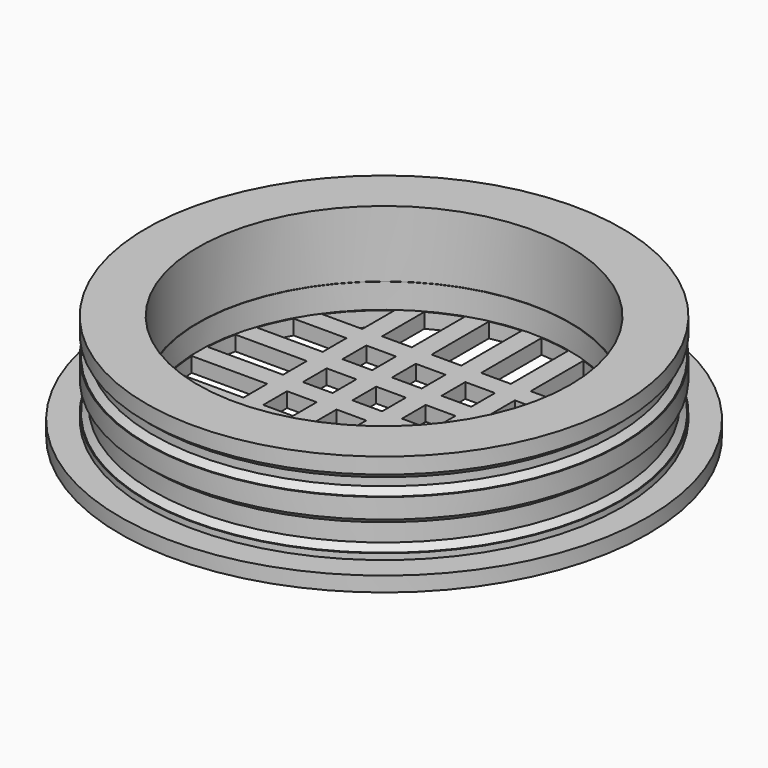
from build123d import *

# Parameters (mm, degrees)
CYLINDER062_R     = 1.9
CYLINDER062_DEPTH = 7.8
CYLINDER068_R     = 1.9
CYLINDER068_DEPTH = 7.8
CYLINDER070_R     = 1.9
CYLINDER070_DEPTH = 7.8
CYLINDER061_R     = 68.3
CYLINDER061_DEPTH = 5
CYLINDER066_R     = 37.5
CYLINDER066_DEPTH = 32
CYLINDER064_R     = 37.5
CYLINDER064_DEPTH = 5
CYLINDER069_R     = 39.9
CYLINDER069_DEPTH = 5
CYLINDER063_R     = 50
CYLINDER063_DEPTH = 10
CYLINDER067_R     = 37.5
CYLINDER067_DEPTH = 5
CYLINDER059_R     = 45
CYLINDER059_DEPTH = 5
BOX024_W          = 66
BOX024_H          = 4
BOX024_DEPTH      = 5
BOX028_W          = 66
BOX028_H          = 4
BOX028_DEPTH      = 5
BOX022_W          = 74
BOX022_H          = 4
BOX022_DEPTH      = 5
BOX020_W          = 74
BOX020_H          = 4
BOX020_DEPTH      = 5
BOX025_W          = 74
BOX025_H          = 4
BOX025_DEPTH      = 5
BOX027_W          = 66
BOX027_H          = 4
BOX027_DEPTH      = 5
BOX026_W          = 76
BOX026_H          = 4
BOX026_DEPTH      = 5
BOX021_W          = 66
BOX021_H          = 4
BOX021_DEPTH      = 5
BOX029_W          = 76
BOX029_H          = 4
BOX029_DEPTH      = 5
BOX023_W          = 74
BOX023_H          = 4
BOX023_DEPTH      = 5
CYLINDER065_R     = 37.3
CYLINDER065_DEPTH = 5
CYLINDER060_R     = 37.5
CYLINDER060_DEPTH = 5
CYLINDER072_R     = 47.3
CYLINDER072_DEPTH = 3
CYLINDER071_R     = 53.3
CYLINDER071_DEPTH = 3
CYLINDER058_R     = 2
CYLINDER058_DEPTH = 7.8
CYLINDER057_R     = 2
CYLINDER057_DEPTH = 7.8
CYLINDER054_R     = 2
CYLINDER054_DEPTH = 7.8
CYLINDER056_R     = 37.6
CYLINDER056_DEPTH = 13.4
CYLINDER055_R     = 40
CYLINDER055_DEPTH = 13.4
CYLINDER019_R     = 68.3
CYLINDER019_DEPTH = 5
CYLINDER009_R     = 40
CYLINDER009_DEPTH = 27.4
CYLINDER008_R     = 45
CYLINDER008_DEPTH = 23.4
CYLINDER005_R     = 45
CYLINDER005_DEPTH = 25
CYLINDER_R        = 48
CYLINDER_DEPTH    = 3.2
CYLINDER003_R     = 46.6
CYLINDER003_DEPTH = 6
CYLINDER001_R     = 46.6
CYLINDER001_DEPTH = 4
CYLINDER002_R     = 48
CYLINDER002_DEPTH = 4
CYLINDER004_R     = 48
CYLINDER004_DEPTH = 1.2
CYLINDER007_R     = 45
CYLINDER007_DEPTH = 25
CYLINDER006_R     = 51.3
CYLINDER006_DEPTH = 5
CHAMFER_SIZE      = 1.2
CHAMFER001_SIZE   = 1.2


with BuildPart() as cylinder062:
    # Cylinder062 → Cylinder062 (new body)
    with BuildSketch(Plane(origin=(0, 39.8, -18), x_dir=(1, 0, 0), z_dir=(0, 0, 1))):
        Circle(CYLINDER062_R)
    extrude(amount=CYLINDER062_DEPTH)


with BuildPart() as cylinder068:
    # Cylinder068 → Cylinder068 (new body)
    with BuildSketch(Plane(origin=(-39.8, 0, -18), x_dir=(1, 0, 0), z_dir=(0, 0, 1))):
        Circle(CYLINDER068_R)
    extrude(amount=CYLINDER068_DEPTH)


with BuildPart() as cylinder070:
    # Cylinder070 → Cylinder070 (new body)
    with BuildSketch(Plane(origin=(39.8, 0, -18), x_dir=(1, 0, 0), z_dir=(0, 0, 1))):
        Circle(CYLINDER070_R)
    extrude(amount=CYLINDER070_DEPTH)


with BuildPart() as obj1:
    # Cylinder061 → Cylinder061 (new body)
    with BuildSketch(Plane.XY.offset(-23.2)):
        Circle(CYLINDER061_R)
    extrude(amount=CYLINDER061_DEPTH)


with BuildPart() as cylinder066:
    # Cylinder066 → Cylinder066 (new body)
    with BuildSketch(Plane.XY.offset(-39)):
        Circle(CYLINDER066_R)
    extrude(amount=CYLINDER066_DEPTH)


with BuildPart() as cut030:
    # Cone004 → Cone004 (revolve)
    with BuildSketch(Plane(origin=(0, 0, -15.2), x_dir=(-1, 0, 0), z_dir=(0, -1, 0))):
        Polygon((0, 0), (39.85, 0), (44.9, 5), (0, 5), align=None)
    revolve(axis=Axis((0, 0, -15.2), (0, 0, -1)))

    # Cut030: cut Cylinder066
    add(cylinder066.part, mode=Mode.SUBTRACT)


with BuildPart() as cylinder064:
    # Cylinder064 → Cylinder064 (new body)
    with BuildSketch(Plane.XY):
        Circle(CYLINDER064_R)
    extrude(amount=CYLINDER064_DEPTH)


with BuildPart() as cut031:
    # Cylinder069 → Cylinder069 (new body)
    with BuildSketch(Plane.XY):
        Circle(CYLINDER069_R)
    extrude(amount=CYLINDER069_DEPTH)

    # Cut033: cut Cylinder064
    add(cylinder064.part, mode=Mode.SUBTRACT)


with BuildPart() as cut031_1:
    # Cut033 placement: moved
    add(cut031.part.moved(Location((0, 0, -15.2))))

    # Fusion020: union Cut030
    add(cut030.part)

    # Cut031: cut obj1
    add(obj1.part, mode=Mode.SUBTRACT)


with BuildPart() as cylinder063:
    # Cylinder063 → Cylinder063 (new body)
    with BuildSketch(Plane.XY.offset(-49)):
        Circle(CYLINDER063_R)
    extrude(amount=CYLINDER063_DEPTH)


with BuildPart() as cylinder067:
    # Cylinder067 → Cylinder067 (new body)
    with BuildSketch(Plane.XY.offset(-41)):
        Circle(CYLINDER067_R)
    extrude(amount=CYLINDER067_DEPTH)


with BuildPart() as cut032:
    # Cylinder059 → Cylinder059 (new body)
    with BuildSketch(Plane.XY.offset(-41)):
        Circle(CYLINDER059_R)
    extrude(amount=CYLINDER059_DEPTH)

    # Cut032: cut Cylinder067
    add(cylinder067.part, mode=Mode.SUBTRACT)


with BuildPart() as cube024:
    # Box024 → Box024 (new body)
    with BuildSketch(Plane(origin=(-18, -33, -41), x_dir=(0, 1, 0), z_dir=(0, 0, 1))):
        with Locations((33, 2)):
            Rectangle(BOX024_W, BOX024_H)
    extrude(amount=BOX024_DEPTH)


with BuildPart() as cube028:
    # Box028 → Box028 (new body)
    with BuildSketch(Plane(origin=(22, -33, -41), x_dir=(0, 1, 0), z_dir=(0, 0, 1))):
        with Locations((33, 2)):
            Rectangle(BOX028_W, BOX028_H)
    extrude(amount=BOX028_DEPTH)


with BuildPart() as cube022:
    # Box022 → Box022 (new body)
    with BuildSketch(Plane(origin=(-8, -37, -41), x_dir=(0, 1, 0), z_dir=(0, 0, 1))):
        with Locations((37, 2)):
            Rectangle(BOX022_W, BOX022_H)
    extrude(amount=BOX022_DEPTH)


with BuildPart() as cube020:
    # Box020 → Box020 (new body)
    with BuildSketch(Plane(origin=(-37, 8, -41), x_dir=(1, 0, 0), z_dir=(0, 0, 1))):
        with Locations((37, 2)):
            Rectangle(BOX020_W, BOX020_H)
    extrude(amount=BOX020_DEPTH)


with BuildPart() as cube025:
    # Box025 → Box025 (new body)
    with BuildSketch(Plane(origin=(-37, -12, -41), x_dir=(1, 0, 0), z_dir=(0, 0, 1))):
        with Locations((37, 2)):
            Rectangle(BOX025_W, BOX025_H)
    extrude(amount=BOX025_DEPTH)


with BuildPart() as cube027:
    # Box027 → Box027 (new body)
    with BuildSketch(Plane(origin=(-33, -22, -41), x_dir=(1, 0, 0), z_dir=(0, 0, 1))):
        with Locations((33, 2)):
            Rectangle(BOX027_W, BOX027_H)
    extrude(amount=BOX027_DEPTH)


with BuildPart() as cube026:
    # Box026 → Box026 (new body)
    with BuildSketch(Plane(origin=(-38, -2, -41), x_dir=(1, 0, 0), z_dir=(0, 0, 1))):
        with Locations((38, 2)):
            Rectangle(BOX026_W, BOX026_H)
    extrude(amount=BOX026_DEPTH)


with BuildPart() as cube021:
    # Box021 → Box021 (new body)
    with BuildSketch(Plane(origin=(-33, 18, -41), x_dir=(1, 0, 0), z_dir=(0, 0, 1))):
        with Locations((33, 2)):
            Rectangle(BOX021_W, BOX021_H)
    extrude(amount=BOX021_DEPTH)


with BuildPart() as cube029:
    # Box029 → Box029 (new body)
    with BuildSketch(Plane(origin=(2, -38, -41), x_dir=(0, 1, 0), z_dir=(0, 0, 1))):
        with Locations((38, 2)):
            Rectangle(BOX029_W, BOX029_H)
    extrude(amount=BOX029_DEPTH)


with BuildPart() as cube023:
    # Box023 → Box023 (new body)
    with BuildSketch(Plane(origin=(12, -37, -41), x_dir=(0, 1, 0), z_dir=(0, 0, 1))):
        with Locations((37, 2)):
            Rectangle(BOX023_W, BOX023_H)
    extrude(amount=BOX023_DEPTH)


with BuildPart() as cylinder065:
    # Cylinder065 → Cylinder065 (new body)
    with BuildSketch(Plane.XY.offset(-41)):
        Circle(CYLINDER065_R)
    extrude(amount=CYLINDER065_DEPTH)


with BuildPart() as fusion021:
    # Cylinder060 → Cylinder060 (new body)
    with BuildSketch(Plane.XY.offset(-41)):
        Circle(CYLINDER060_R)
    extrude(amount=CYLINDER060_DEPTH)

    # Cut035: cut Cylinder065
    add(cylinder065.part, mode=Mode.SUBTRACT)

    # Fusion022: union Cube024, Cube028, Cube022, Cube020, Cube025, Cube027, Cube026, Cube021, Cube029, Cube023
    add(cube024.part)
    add(cube028.part)
    add(cube022.part)
    add(cube020.part)
    add(cube025.part)
    add(cube027.part)
    add(cube026.part)
    add(cube021.part)
    add(cube029.part)
    add(cube023.part)

    # Cut036: cut Cut032
    add(cut032.part, mode=Mode.SUBTRACT)

    # Cut034: cut Cylinder063
    add(cylinder063.part, mode=Mode.SUBTRACT)


with BuildPart() as fusion021_1:
    # Cut034 placement: moved
    add(fusion021.part.moved(Location((0, 0, 20.8))))

    # Fusion023: union Cut031
    add(cut031_1.part)

    # Fusion024: union Cylinder068, Cylinder070
    add(cylinder068.part)
    add(cylinder070.part)

    # Fusion021: union Cylinder062
    add(cylinder062.part)


with BuildPart() as cylinder072:
    # Cylinder072 → Cylinder072 (new body)
    with BuildSketch(Plane.XY):
        Circle(CYLINDER072_R)
    extrude(amount=CYLINDER072_DEPTH)


with BuildPart() as cut037:
    # Cylinder071 → Cylinder071 (new body)
    with BuildSketch(Plane.XY):
        Circle(CYLINDER071_R)
    extrude(amount=CYLINDER071_DEPTH)

    # Cut037: cut Cylinder072
    add(cylinder072.part, mode=Mode.SUBTRACT)


with BuildPart() as cut037_1:
    # Cut037 placement: moved
    add(cut037.part.moved(Location((0, 0, -18.2))))


with BuildPart() as cylinder058:
    # Cylinder058 → Cylinder058 (new body)
    with BuildSketch(Plane(origin=(-39.8, 0, -18), x_dir=(1, 0, 0), z_dir=(0, 0, 1))):
        Circle(CYLINDER058_R)
    extrude(amount=CYLINDER058_DEPTH)


with BuildPart() as cylinder057:
    # Cylinder057 → Cylinder057 (new body)
    with BuildSketch(Plane(origin=(39.8, 0, -18), x_dir=(1, 0, 0), z_dir=(0, 0, 1))):
        Circle(CYLINDER057_R)
    extrude(amount=CYLINDER057_DEPTH)


with BuildPart() as cylinder054:
    # Cylinder054 → Cylinder054 (new body)
    with BuildSketch(Plane(origin=(0, 39.8, -18), x_dir=(1, 0, 0), z_dir=(0, 0, 1))):
        Circle(CYLINDER054_R)
    extrude(amount=CYLINDER054_DEPTH)


with BuildPart() as cylinder056:
    # Cylinder056 → Cylinder056 (new body)
    with BuildSketch(Plane.XY.offset(-10.2)):
        Circle(CYLINDER056_R)
    extrude(amount=CYLINDER056_DEPTH)


with BuildPart() as cut026:
    # Cylinder055 → Cylinder055 (new body)
    with BuildSketch(Plane.XY.offset(-10.2)):
        Circle(CYLINDER055_R)
    extrude(amount=CYLINDER055_DEPTH)

    # Cut026: cut Cylinder056
    add(cylinder056.part, mode=Mode.SUBTRACT)


with BuildPart() as obj2:
    # Cylinder019 → Cylinder019 (new body)
    with BuildSketch(Plane.XY.offset(-23.2)):
        Circle(CYLINDER019_R)
    extrude(amount=CYLINDER019_DEPTH)


with BuildPart() as cone:
    # Cone → Cone (revolve)
    with BuildSketch(Plane(origin=(0, 0, -15.2), x_dir=(-1, 0, 0), z_dir=(0, -1, 0))):
        Polygon((0, 0), (40, 0), (45, 5), (0, 5), align=None)
    revolve(axis=Axis((0, 0, -15.2), (0, 0, -1)))


with BuildPart() as fusion002:
    # Cylinder009 → Cylinder009 (new body)
    with BuildSketch(Plane.XY.offset(-17)):
        Circle(CYLINDER009_R)
    extrude(amount=CYLINDER009_DEPTH)

    # Fusion002: union Cone
    add(cone.part)


with BuildPart() as cut002:
    # Cylinder008 → Cylinder008 (new body)
    with BuildSketch(Plane.XY.offset(-20.2)):
        Circle(CYLINDER008_R)
    extrude(amount=CYLINDER008_DEPTH)

    # Cut002: cut Fusion002
    add(fusion002.part, mode=Mode.SUBTRACT)


with BuildPart() as cylinder005:
    # Cylinder005 → Cylinder005 (new body)
    with BuildSketch(Plane.XY.offset(-18)):
        Circle(CYLINDER005_R)
    extrude(amount=CYLINDER005_DEPTH)


with BuildPart() as cylinder:
    # Cylinder → Cylinder (new body)
    with BuildSketch(Plane.XY):
        Circle(CYLINDER_R)
    extrude(amount=CYLINDER_DEPTH)


with BuildPart() as cylinder003:
    # Cylinder003 → Cylinder003 (new body)
    with BuildSketch(Plane.XY.offset(-14)):
        Circle(CYLINDER003_R)
    extrude(amount=CYLINDER003_DEPTH)


with BuildPart() as cylinder001:
    # Cylinder001 → Cylinder001 (new body)
    with BuildSketch(Plane.XY.offset(-4)):
        Circle(CYLINDER001_R)
    extrude(amount=CYLINDER001_DEPTH)


with BuildPart() as cylinder002:
    # Cylinder002 → Cylinder002 (new body)
    with BuildSketch(Plane.XY.offset(-8)):
        Circle(CYLINDER002_R)
    extrude(amount=CYLINDER002_DEPTH)


with BuildPart() as cut:
    # Cylinder004 → Cylinder004 (new body)
    with BuildSketch(Plane.XY.offset(-15.2)):
        Circle(CYLINDER004_R)
    extrude(amount=CYLINDER004_DEPTH)

    # Fusion: union Cylinder, Cylinder003, Cylinder001, Cylinder002
    add(cylinder.part)
    add(cylinder003.part)
    add(cylinder001.part)
    add(cylinder002.part)

    # Cut: cut Cylinder005
    add(cylinder005.part, mode=Mode.SUBTRACT)


with BuildPart() as cylinder007:
    # Cylinder007 → Cylinder007 (new body)
    with BuildSketch(Plane.XY.offset(-23)):
        Circle(CYLINDER007_R)
    extrude(amount=CYLINDER007_DEPTH)


with BuildPart() as fusion025:
    # Cylinder006 → Cylinder006 (new body)
    with BuildSketch(Plane.XY.offset(-20.2)):
        Circle(CYLINDER006_R)
    extrude(amount=CYLINDER006_DEPTH)

    # Cut001: cut Cylinder007
    add(cylinder007.part, mode=Mode.SUBTRACT)

    # Fusion001: union Cut
    add(cut.part)

    # Fusion003: union Cut002
    add(cut002.part)

    # Chamfer
    chamfer_edges = [fusion025.edges().sort_by_distance(p)[0] for p in [
        (-46.6, 0, -14),
        (-46.6, 0, -4),
    ]]
    chamfer(chamfer_edges, length=CHAMFER_SIZE)

    # Chamfer001
    chamfer001_edges = [fusion025.edges().sort_by_distance(p)[0] for p in [
        (-46.6, 0, -8),
        (-46.6, 0, 0),
    ]]
    chamfer(chamfer001_edges, length=CHAMFER001_SIZE)

    # Cut009: cut obj2
    add(obj2.part, mode=Mode.SUBTRACT)

    # Fusion019: union Cut026
    add(cut026.part)

    # Cut027: cut Cylinder054
    add(cylinder054.part, mode=Mode.SUBTRACT)

    # Cut028: cut Cylinder057
    add(cylinder057.part, mode=Mode.SUBTRACT)

    # Cut029: cut Cylinder058
    add(cylinder058.part, mode=Mode.SUBTRACT)

    # Fusion025: union Cut037
    add(cut037_1.part)


solid = Compound([fusion021_1.part, fusion025.part])
